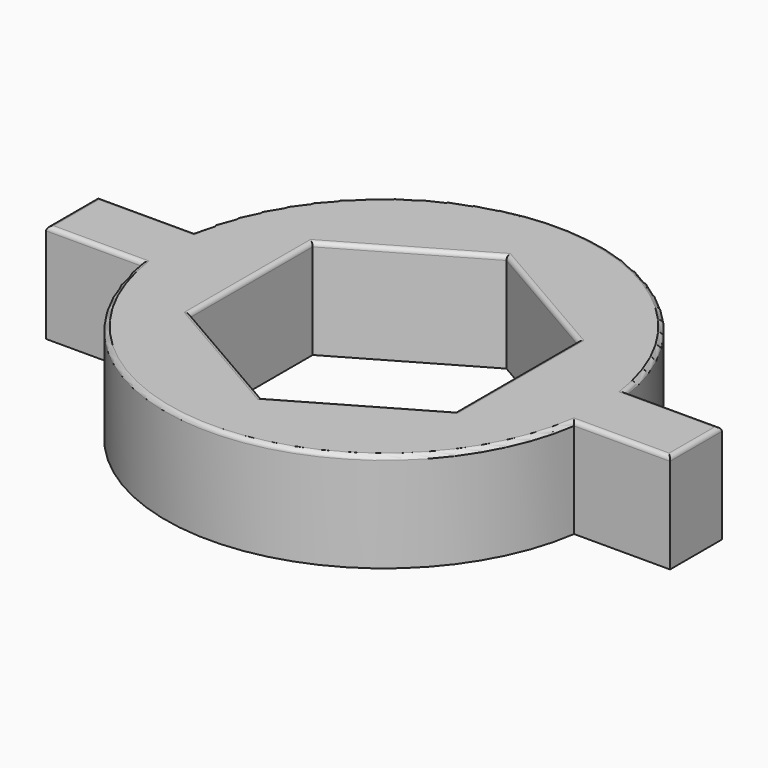
from build123d import *

# Parameters (mm, degrees)
F1_DEPTH = 3
F2_R     = 0.127


with BuildPart() as f1:
    # F0 (on Top) → F1 (new body)
    with BuildSketch(Plane.XY):
        with BuildLine():
            Line((9.417435, 0.978953), (6.522113, 0.978953))
            ThreePointArc((6.522113, 0.978953), (0, 6.595173), (-6.522113, 0.978953))
            Line((-6.522113, 0.978953), (-9.417435, 0.978953))
            Line((-9.417435, 0.978953), (-9.417435, -0.978953))
            Line((-9.417435, -0.978953), (-6.522113, -0.978953))
            ThreePointArc((-6.522113, -0.978953), (0, -6.595173), (6.522113, -0.978953))
            Line((6.522113, -0.978953), (9.417435, -0.978953))
            Line((9.417435, -0.978953), (9.417435, 0.978953))
        make_face()
        Polygon((0, 4.618802), (4, 2.309401), (4, -2.309401), (0, -4.618802), (-4, -2.309401), (-4, 2.309401), align=None, mode=Mode.SUBTRACT)
    extrude(amount=F1_DEPTH)

    # F2
    f2_edges = [f1.edges().sort_by_distance(p)[0] for p in [
        (7.969774, -0.978953, 3),
        (9.417435, 0, 3),
        (7.969774, 0.978953, 3),
        (0, 6.595173, 3),
        (-7.969774, 0.978953, 3),
        (-9.417435, 0, 3),
        (-7.969774, -0.978953, 3),
        (0, -6.595173, 3),
        (-2, 3.464102, 3),
        (2, 3.464102, 3),
        (4, 0, 3),
        (2, -3.464102, 3),
        (-2, -3.464102, 3),
        (-4, 0, 3),
    ]]
    fillet(f2_edges, radius=F2_R)


solid = f1.part
